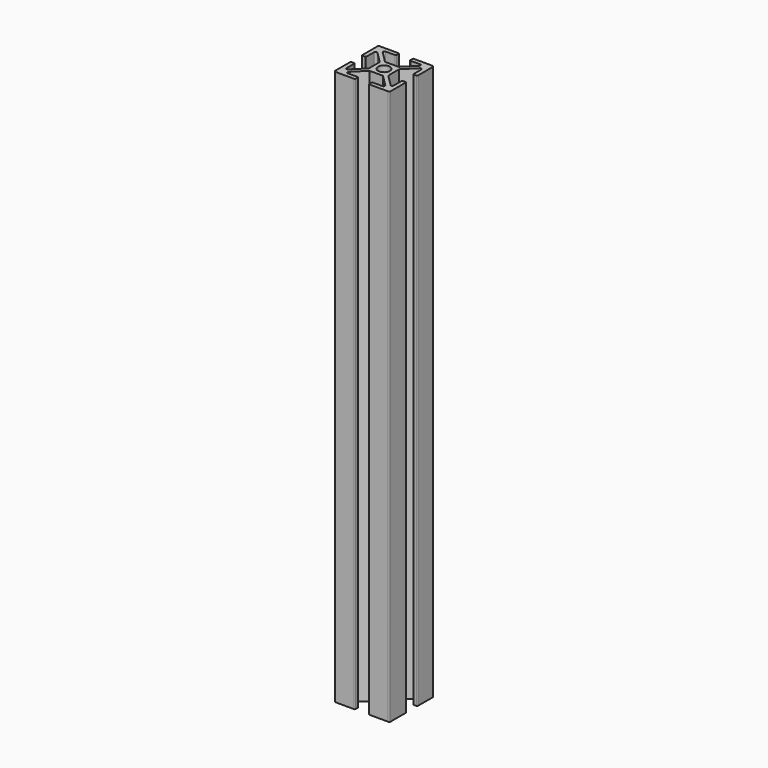
from build123d import *

# Parameters (mm, degrees)
F0_R     = 2.1
F1_DEPTH = 200
F2_R     = 2.1
F3_DEPTH = 7
F4_R     = 1.6
F5_DEPTH = 7


with BuildPart() as f1:
    # F0 (on Top) → F1 (new body)
    with BuildSketch(Plane.XY):
        with BuildLine():
            ThreePointArc((-3.308023, 10.226634), (-3.381246, 10.403411), (-3.558023, 10.476634))
            Line((-3.558023, 10.476634), (-10.308023, 10.476634))
            ThreePointArc((-10.308023, 10.476634), (-10.499365, 10.438574), (-10.661577, 10.330188))
            ThreePointArc((-10.661577, 10.330188), (-10.769963, 10.167976), (-10.808023, 9.976634))
            Line((-10.808023, 9.976634), (-10.808023, 3.226634))
            ThreePointArc((-10.808023, 3.226634), (-10.7348, 3.049858), (-10.558023, 2.976634))
            Line((-10.558023, 2.976634), (-9.555049, 2.976634))
            ThreePointArc((-9.555049, 2.976634), (-9.378272, 3.049858), (-9.305049, 3.226634))
            Line((-9.305049, 3.226634), (-9.305049, 6.654412))
            ThreePointArc((-9.305049, 6.654412), (-9.024273, 7.159685), (-8.45447, 7.062421))
            Line((-8.45447, 7.062421), (-4.381246, 2.989198))
            ThreePointArc((-4.381246, 2.989198), (-4.327053, 2.908092), (-4.308023, 2.812421))
            Line((-4.308023, 2.812421), (-4.308023, -1.859152))
            ThreePointArc((-4.308023, -1.859152), (-4.327053, -1.954823), (-4.381246, -2.035929))
            Line((-4.381246, -2.035929), (-8.45447, -6.109152))
            ThreePointArc((-8.45447, -6.109152), (-8.999365, -6.217538), (-9.308023, -5.755599))
            Line((-9.308023, -5.755599), (-9.308023, -2.273366))
            ThreePointArc((-9.308023, -2.273366), (-9.381246, -2.096589), (-9.558023, -2.023366))
            Line((-9.558023, -2.023366), (-10.558023, -2.023366))
            ThreePointArc((-10.558023, -2.023366), (-10.7348, -2.096589), (-10.808023, -2.273366))
            Line((-10.808023, -2.273366), (-10.808023, -9.023366))
            ThreePointArc((-10.808023, -9.023366), (-10.769963, -9.214707), (-10.661577, -9.376919))
            ThreePointArc((-10.661577, -9.376919), (-10.508248, -9.481525), (-10.327327, -9.522993))
            Line((-10.327327, -9.522993), (-3.544376, -9.522993))
            ThreePointArc((-3.544376, -9.522993), (-3.376486, -9.44525), (-3.308023, -9.273366))
            Line((-3.308023, -9.273366), (-3.308023, -8.273366))
            ThreePointArc((-3.308023, -8.273366), (-3.381246, -8.096589), (-3.558023, -8.023366))
            Line((-3.558023, -8.023366), (-7.040256, -8.023366))
            ThreePointArc((-7.040256, -8.023366), (-7.502196, -7.714707), (-7.39381, -7.169812))
            Line((-7.39381, -7.169812), (-3.320586, -3.096589))
            ThreePointArc((-3.320586, -3.096589), (-3.23948, -3.042396), (-3.14381, -3.023366))
            Line((-3.14381, -3.023366), (1.527763, -3.023366))
            ThreePointArc((1.527763, -3.023366), (1.623434, -3.042396), (1.70454, -3.096589))
            Line((1.70454, -3.096589), (5.777763, -7.169812))
            ThreePointArc((5.777763, -7.169812), (5.88615, -7.714707), (5.42421, -8.023366))
            Line((5.42421, -8.023366), (1.95454, -8.023366))
            ThreePointArc((1.95454, -8.023366), (1.777763, -8.096589), (1.70454, -8.273366))
            Line((1.70454, -8.273366), (1.70454, -9.273366))
            ThreePointArc((1.70454, -9.273366), (1.773002, -9.44525), (1.940893, -9.522993))
            Line((1.940893, -9.522993), (8.711281, -9.522993))
            ThreePointArc((8.711281, -9.522993), (8.892202, -9.481525), (9.04553, -9.376919))
            ThreePointArc((9.04553, -9.376919), (9.141878, -9.241515), (9.188525, -9.082012))
            Line((9.188525, -9.082012), (9.188525, -2.231968))
            ThreePointArc((9.188525, -2.231968), (9.103455, -2.082513), (8.941977, -2.023366))
            Line((8.941977, -2.023366), (7.941977, -2.023366))
            ThreePointArc((7.941977, -2.023366), (7.7652, -2.096589), (7.691977, -2.273366))
            Line((7.691977, -2.273366), (7.691977, -5.755599))
            ThreePointArc((7.691977, -5.755599), (7.383319, -6.217538), (6.838423, -6.109152))
            Line((6.838423, -6.109152), (2.7652, -2.035929))
            ThreePointArc((2.7652, -2.035929), (2.711007, -1.954823), (2.691977, -1.859152))
            Line((2.691977, -1.859152), (2.691977, 2.812421))
            ThreePointArc((2.691977, 2.812421), (2.711007, 2.908092), (2.7652, 2.989198))
            Line((2.7652, 2.989198), (6.838423, 7.062421))
            ThreePointArc((6.838423, 7.062421), (7.383319, 7.170807), (7.691977, 6.708867))
            Line((7.691977, 6.708867), (7.691977, 3.226634))
            ThreePointArc((7.691977, 3.226634), (7.7652, 3.049858), (7.941977, 2.976634))
            Line((7.941977, 2.976634), (8.941977, 2.976634))
            ThreePointArc((8.941977, 2.976634), (9.103455, 3.035782), (9.188525, 3.185237))
            Line((9.188525, 3.185237), (9.188525, 10.035281))
            ThreePointArc((9.188525, 10.035281), (9.141878, 10.194784), (9.04553, 10.330188))
            ThreePointArc((9.04553, 10.330188), (8.883319, 10.438574), (8.691977, 10.476634))
            Line((8.691977, 10.476634), (1.941977, 10.476634))
            ThreePointArc((1.941977, 10.476634), (1.7652, 10.403411), (1.691977, 10.226634))
            Line((1.691977, 10.226634), (1.691977, 9.226634))
            ThreePointArc((1.691977, 9.226634), (1.695138, 9.187006), (1.70454, 9.14838))
            ThreePointArc((1.70454, 9.14838), (1.795456, 9.024071), (1.941977, 8.976634))
            Line((1.941977, 8.976634), (5.42421, 8.976634))
            ThreePointArc((5.42421, 8.976634), (5.88615, 8.667976), (5.777763, 8.123081))
            Line((5.777763, 8.123081), (1.70454, 4.049858))
            ThreePointArc((1.70454, 4.049858), (1.623434, 3.995664), (1.527763, 3.976634))
            Line((1.527763, 3.976634), (-3.14381, 3.976634))
            ThreePointArc((-3.14381, 3.976634), (-3.23948, 3.995664), (-3.320586, 4.049858))
            Line((-3.320586, 4.049858), (-7.39381, 8.123081))
            ThreePointArc((-7.39381, 8.123081), (-7.502196, 8.667976), (-7.040256, 8.976634))
            Line((-7.040256, 8.976634), (-3.558023, 8.976634))
            ThreePointArc((-3.558023, 8.976634), (-3.381246, 9.049858), (-3.308023, 9.226634))
            Line((-3.308023, 9.226634), (-3.308023, 9.726634))
            Line((-3.308023, 9.726634), (-3.308023, 10.226634))
        make_face()
        with Locations((-0.808023, 0.476634)):
            Circle(F0_R, mode=Mode.SUBTRACT)
    extrude(amount=F1_DEPTH)

    # F2 (on face) → F3 (cut)
    with BuildSketch(Plane.YZ.offset(2.691977)):
        with Locations((0.476634, 79.99858)):
            Circle(F2_R)
    extrude(amount=-F3_DEPTH, mode=Mode.SUBTRACT)

    # F4 (on face) → F5 (cut)
    with BuildSketch(Plane(origin=(0, 3.976634, 0), x_dir=(-1, 0, 0), z_dir=(0, 1, 0))):
        with Locations((0.808023, 190)):
            Circle(F4_R)
    extrude(amount=-F5_DEPTH, mode=Mode.SUBTRACT)


solid = f1.part
